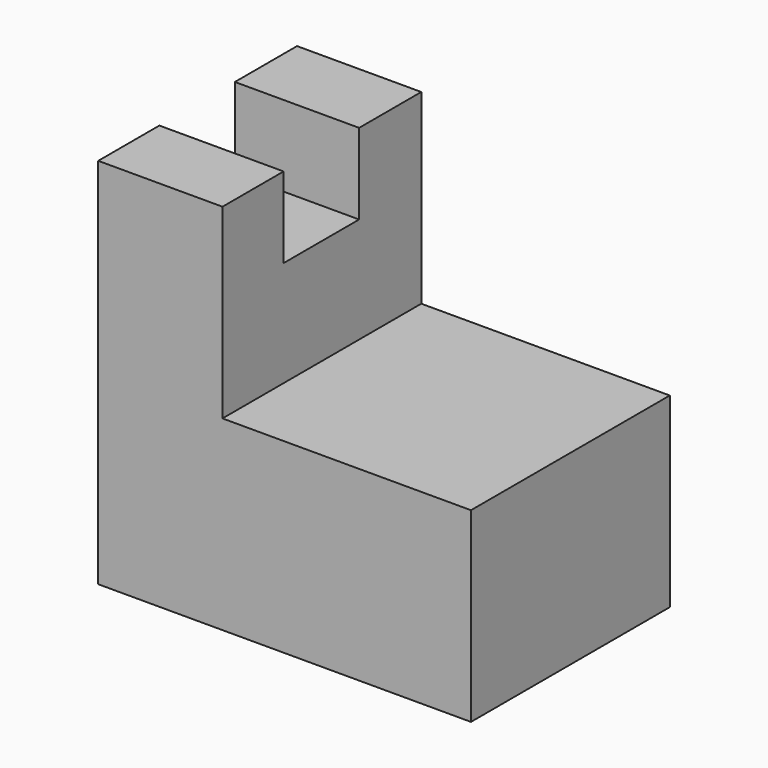
from build123d import *

# Parameters (mm, degrees)
F1_DEPTH = 25.4
F2_W     = 9.649448
F2_H     = 8.247023
F3_DEPTH = 25.4


with BuildPart() as f1:
    # F0 (on Front) → F1 (new body)
    with BuildSketch(Plane.XZ):
        Polygon((0, 38.1), (0, 0), (38.1, 0), (38.1, 19.05), (12.7, 19.05), (12.7, 38.1), align=None)
    extrude(amount=F1_DEPTH)

    # F2 (on face) → F3 (cut)
    with BuildSketch(Plane.YZ.offset(12.7)):
        with Locations((-12.765415, 33.976489)):
            Rectangle(F2_W, F2_H)
    extrude(amount=-F3_DEPTH, mode=Mode.SUBTRACT)


solid = f1.part
